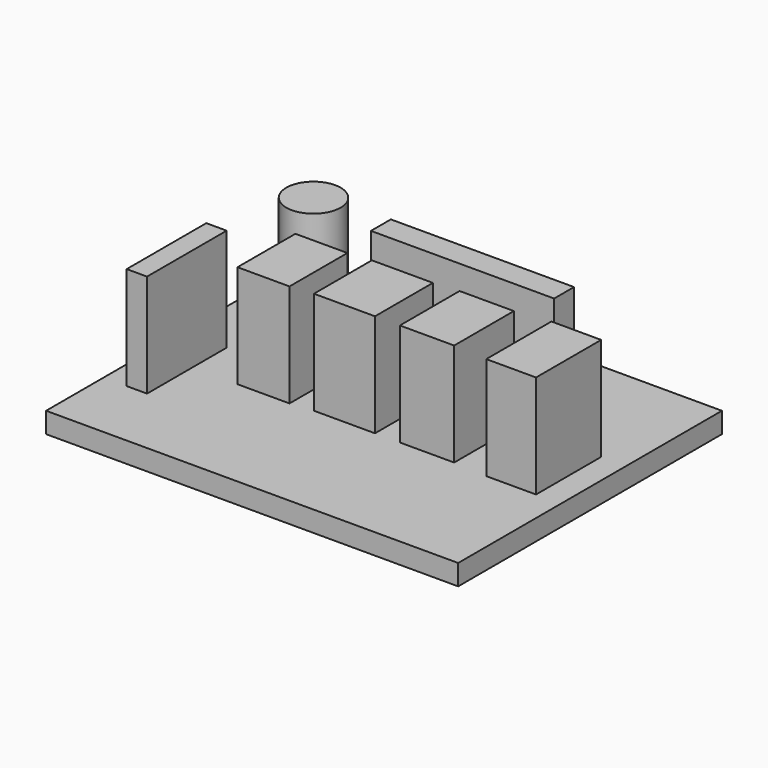
from build123d import *

# Parameters (mm, degrees)
F0_W     = 50.8
F0_H     = 40.64
F1_DEPTH = 2.54
F2_W     = 6.411951
F2_H     = 8.920975
F2_W_2   = 7.527074
F2_H_2   = 8.920976
F2_W_3   = 6.690732
F2_H_3   = 9.199756
F2_W_4   = 6.133169
F2_H_4   = 10.036097
F2_W_5   = 22.581218
F2_H_5   = 3.066585
F2_W_6   = 2.509024
F2_H_6   = 12.266342
F2_R     = 3.345367
F3_DEPTH = 12.7


with BuildPart() as f1:
    # F0 (on Top) → F1 (new body)
    with BuildSketch(Plane.XY):
        with Locations((-25.4, -20.32)):
            Rectangle(F0_W, F0_H)
    extrude(amount=F1_DEPTH)

    # F2 (on face) → F3 (join)
    with BuildSketch(Plane.XY.offset(2.54)):
        with Locations((-36.659633, -20.350976)):
            Rectangle(F2_W, F2_H)
        with Locations((-26.902317, -20.072195)):
            Rectangle(F2_W_2, F2_H_2)
        with Locations((-16.72683, -19.932805)):
            Rectangle(F2_W_3, F2_H_3)
        with Locations((-6.133171, -19.793415)):
            Rectangle(F2_W_4, F2_H_4)
        with Locations((-23.27817, -9.339147)):
            Rectangle(F2_W_5, F2_H_5)
        with Locations((-46.695733, -25.647806)):
            Rectangle(F2_W_6, F2_H_6)
        with Locations((-43.210976, -8.920976)):
            Circle(F2_R)
    extrude(amount=F3_DEPTH)


solid = f1.part
